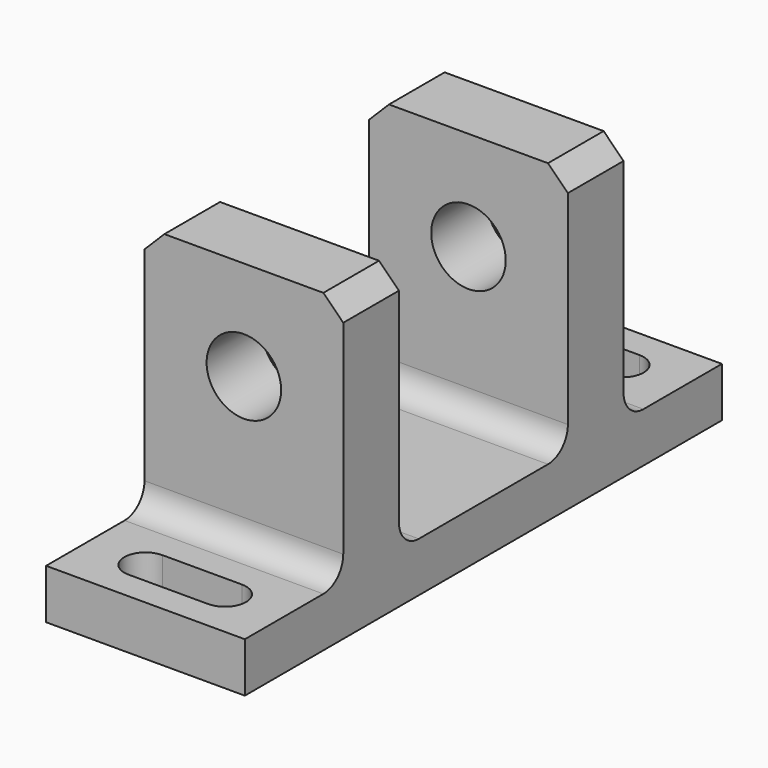
from build123d import *

# Parameters (mm, degrees)
F1_DEPTH = 12.7
F2_R     = 4.7625
F3_DEPTH = 44.7675
F5_DEPTH = 6.35
F6_SIZE  = 2.54


with BuildPart() as f1:
    # F0 (on Right) → F1 (new body, symmetric)
    with BuildSketch(Plane.YZ):
        with BuildLine():
            Line((-38.1, 0), (0, 0))
            Line((0, 0), (38.1, 0))
            Line((38.1, 0), (38.1, 6.35))
            Line((38.1, 6.35), (25.55875, 6.35))
            ThreePointArc((25.55875, 6.35), (23.313686, 7.279936), (22.38375, 9.525))
            Line((22.38375, 9.525), (22.38375, 38.1))
            Line((22.38375, 38.1), (13.49375, 38.1))
            Line((13.49375, 38.1), (13.49375, 9.525))
            ThreePointArc((13.49375, 9.525), (12.563814, 7.279936), (10.31875, 6.35))
            Line((10.31875, 6.35), (0, 6.35))
            Line((0, 6.35), (-10.31875, 6.35))
            ThreePointArc((-10.31875, 6.35), (-12.563814, 7.279936), (-13.49375, 9.525))
            Line((-13.49375, 9.525), (-13.49375, 38.1))
            Line((-13.49375, 38.1), (-22.38375, 38.1))
            Line((-22.38375, 38.1), (-22.38375, 9.525))
            ThreePointArc((-22.38375, 9.525), (-23.313686, 7.279936), (-25.55875, 6.35))
            Line((-25.55875, 6.35), (-38.1, 6.35))
            Line((-38.1, 6.35), (-38.1, 0))
        make_face()
    extrude(amount=F1_DEPTH, both=True)

    # F2 (on face) → F3 (cut, through all)
    with BuildSketch(Plane.XZ.offset(22.38375)):
        with Locations((0, 25.4)):
            Circle(F2_R)
    extrude(amount=-F3_DEPTH, mode=Mode.SUBTRACT)

    # F4 (on face) → F5 (cut, through all)
    with BuildSketch(Plane.XY.offset(6.35)):
        with BuildLine():
            ThreePointArc((-5.08, 34.45), (-7.78, 31.75), (-5.08, 29.05))
            Line((-5.08, 29.05), (5.08, 29.05))
            ThreePointArc((5.08, 29.05), (7.78, 31.75), (5.08, 34.45))
            Line((5.08, 34.45), (-5.08, 34.45))
        make_face()
        with BuildLine():
            ThreePointArc((-5.08, -29.05), (-7.78, -31.75), (-5.08, -34.45))
            Line((-5.08, -34.45), (0, -34.45))
            Line((0, -34.45), (0, -29.05))
            Line((0, -29.05), (-5.08, -29.05))
        make_face()
        with BuildLine():
            Line((0, -29.05), (0, -34.45))
            Line((0, -34.45), (5.08, -34.45))
            ThreePointArc((5.08, -34.45), (7.78, -31.75), (5.08, -29.05))
            Line((5.08, -29.05), (0, -29.05))
        make_face()
    extrude(amount=-F5_DEPTH, mode=Mode.SUBTRACT)

    # F6
    f6_edges = [f1.edges().sort_by_distance(p)[0] for p in [
        (12.7, -17.93875, 38.1),
        (12.7, 17.93875, 38.1),
        (-12.7, -17.93875, 38.1),
        (-12.7, 17.93875, 38.1),
    ]]
    chamfer(f6_edges, length=F6_SIZE)


solid = f1.part
